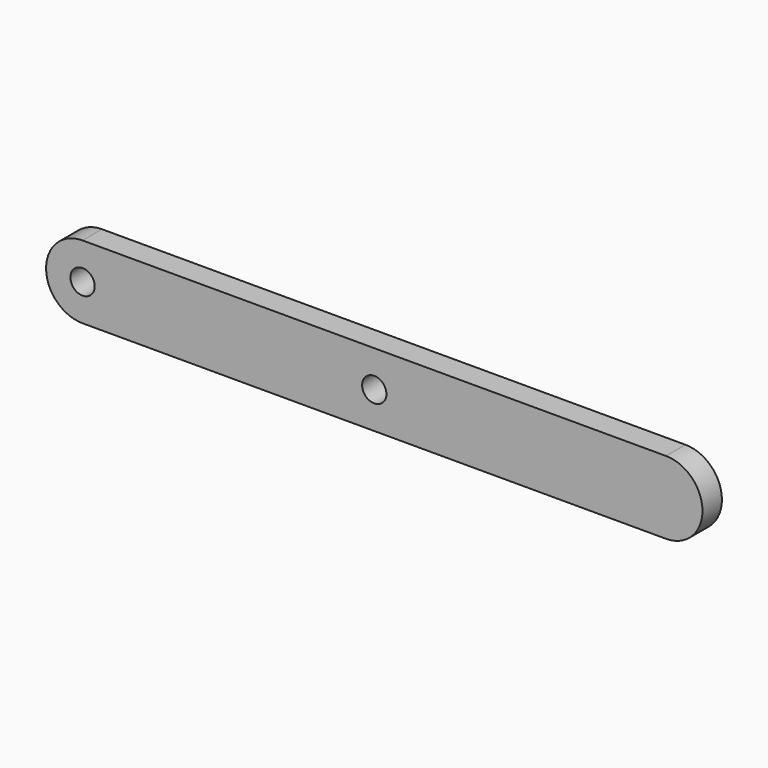
from build123d import *

# Parameters (mm, degrees)
F0_R     = 6.35
F1_DEPTH = 6.35


with BuildPart() as f1:
    # F0 (on Front) → F1 (new body, symmetric)
    with BuildSketch(Plane.XZ):
        with BuildLine():
            Line((304.8, 19.05), (0, 19.05))
            ThreePointArc((0, 19.05), (-19.05, 0), (0, -19.05))
            Line((0, -19.05), (304.8, -19.05))
            ThreePointArc((304.8, -19.05), (323.85, 0), (304.8, 19.05))
        make_face()
        Circle(F0_R, mode=Mode.SUBTRACT)
        with Locations((152.4, 0)):
            Circle(F0_R, mode=Mode.SUBTRACT)
    extrude(amount=F1_DEPTH, both=True)


solid = f1.part
